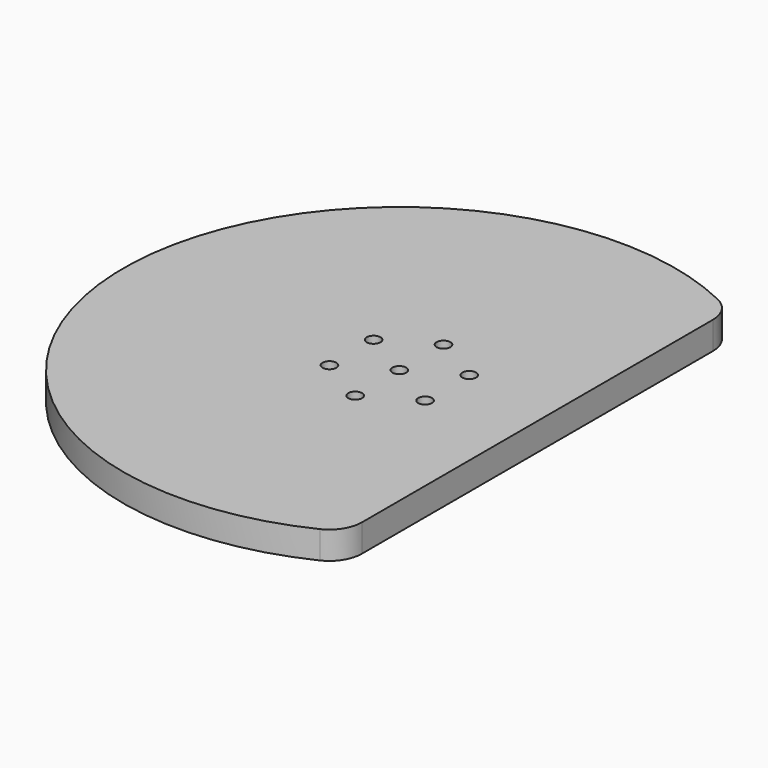
from build123d import *

# Parameters (mm, degrees)
F2_DEPTH = 12.7
F3_R     = 3.175
F4_DEPTH = 12.7


with BuildPart() as f2:
    # F1 (on Top) → F2 (new body)
    with BuildSketch(Plane.XY):
        with BuildLine():
            ThreePointArc((63.5, 100.954198), (61.197107, 108.940654), (54.995536, 114.474849))
            ThreePointArc((54.995536, 114.474849), (-127, 0), (54.995536, -114.474849))
            ThreePointArc((54.995536, -114.474849), (61.197107, -108.940654), (63.5, -100.954198))
            Line((63.5, -100.954198), (63.5, 100.954198))
        make_face()
    extrude(amount=F2_DEPTH)

    # F3 (on Top) → F4 (cut, through all)
    with BuildSketch(Plane.XY):
        Circle(F3_R)
        with Locations((0, 25.4)):
            Circle(F3_R)
        with Locations((-21.997045, 12.7)):
            Circle(F3_R)
        with Locations((-21.997045, -12.7)):
            Circle(F3_R)
        with Locations((0, -25.4)):
            Circle(F3_R)
        with Locations((21.997045, -12.7)):
            Circle(F3_R)
        with Locations((21.997045, 12.7)):
            Circle(F3_R)
    extrude(amount=F4_DEPTH, mode=Mode.SUBTRACT)


solid = f2.part
